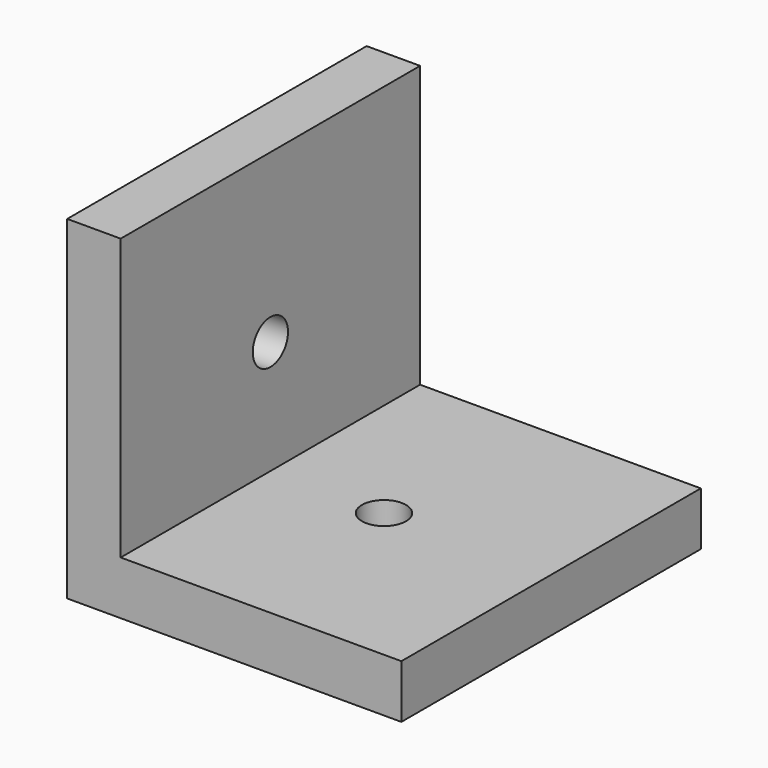
from build123d import *

# Parameters (mm, degrees)
F1_DEPTH       = 28
F3_D           = 3.3
F3_DEPTH       = 40
F3_CSINK_D     = 6.72
F3_CSINK_ANGLE = 90
F3_TIP         = 0.9914200214
F5_D           = 3.3
F5_DEPTH       = 40
F5_CSINK_D     = 6.72
F5_CSINK_ANGLE = 90
F5_TIP         = 0.9914200214


with BuildPart() as f1:
    # F0 (on Front) → F1 (new body)
    with BuildSketch(Plane.XZ):
        Polygon((0, 4), (0, 0), (4, 0), (25, 0), (25, 4), (4, 4), (4, 25), (0, 25), align=None)
    extrude(amount=F1_DEPTH)

    # F3
    with Locations(Plane(origin=(0, 0, 0), x_dir=(0, -1, 0), z_dir=(-1, 0, 0))):
        with Locations((14, 12.5)):
            CounterSinkHole(F3_D / 2, F3_CSINK_D / 2, depth=F3_DEPTH, counter_sink_angle=F3_CSINK_ANGLE)
            with Locations((0, 0, -(F3_DEPTH + F3_TIP / 2))):  # 118° drill point
                Cone(0, F3_D / 2, F3_TIP, mode=Mode.SUBTRACT)

    # F5
    with Locations(Plane(origin=(0, 0, 0), x_dir=(1, 0, 0), z_dir=(0, 0, -1))):
        with Locations((12.5, 14)):
            CounterSinkHole(F5_D / 2, F5_CSINK_D / 2, depth=F5_DEPTH, counter_sink_angle=F5_CSINK_ANGLE)
            with Locations((0, 0, -(F5_DEPTH + F5_TIP / 2))):  # 118° drill point
                Cone(0, F5_D / 2, F5_TIP, mode=Mode.SUBTRACT)


solid = f1.part
